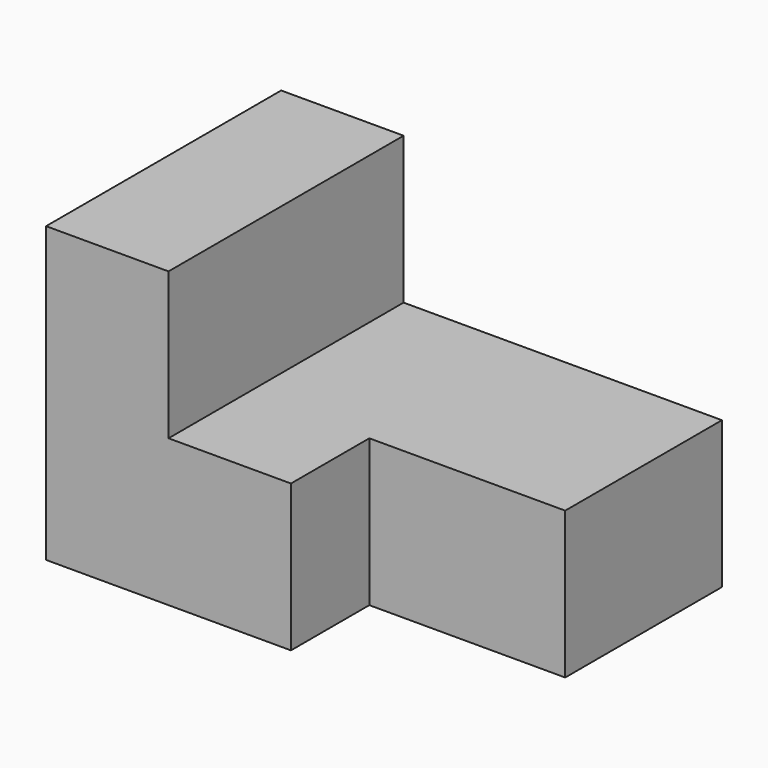
from build123d import *

# Parameters (mm, degrees)
F0_W     = 228.6
F0_H     = 152.4
F1_DEPTH = 76.2
F2_W     = 165.1
F2_H     = 76.2
F3_DEPTH = 152.401
F4_W     = 101.6
F4_H     = 50.8
F5_DEPTH = 76.201


with BuildPart() as f1:
    # F0 (on Front) → F1 (new body, symmetric)
    with BuildSketch(Plane.XZ):
        with Locations((4.998058, 6.035197)):
            Rectangle(F0_W, F0_H)
    extrude(amount=F1_DEPTH, both=True)

    # F2 (on face) → F3 (cut, through all)
    with BuildSketch(Plane.XZ.offset(76.2)):
        with Locations((36.748058, 44.135197)):
            Rectangle(F2_W, F2_H)
    extrude(amount=-F3_DEPTH, mode=Mode.SUBTRACT)

    # F4 (on face) → F5 (cut, through all)
    with BuildSketch(Plane.XY.offset(6.035197)):
        with Locations((68.498058, -50.8)):
            Rectangle(F4_W, F4_H)
    extrude(amount=-F5_DEPTH, mode=Mode.SUBTRACT)


solid = f1.part
